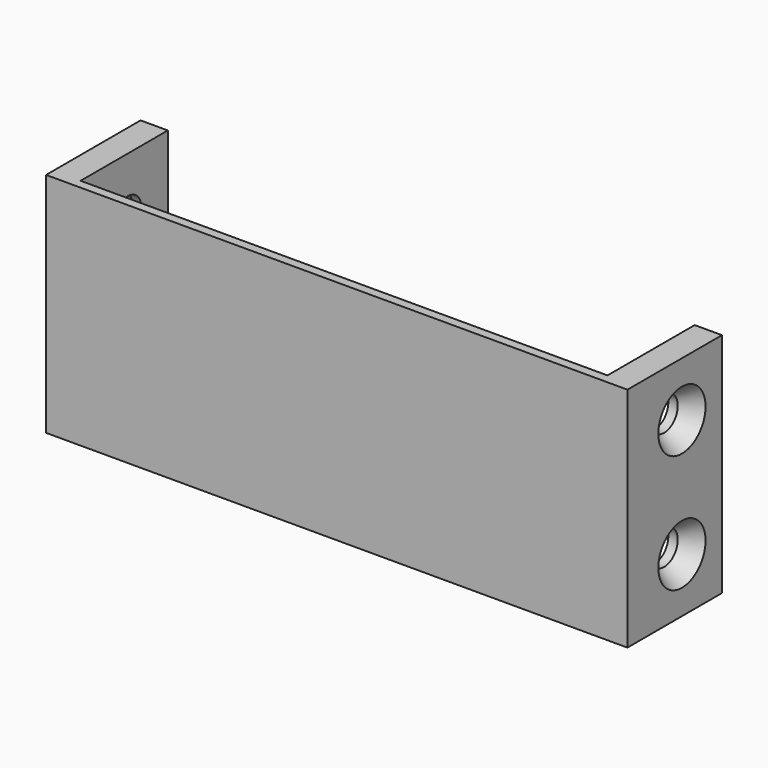
from build123d import *

# Parameters (mm, degrees)
F1_DEPTH       = 25
F4_D           = 3.75
F4_CSINK_D     = 6.5
F4_CSINK_ANGLE = 70
F5_D           = 3.75
F5_CSINK_D     = 6.5
F5_CSINK_ANGLE = 70


with BuildPart() as f1:
    # F0 (on Top) → F1 (new body)
    with BuildSketch(Plane.XY):
        Polygon((-23.20677, 6.948909), (-26.20677, 6.948909), (-26.20677, -6.051091), (37.79323, -6.051091), (37.79323, 6.948909), (34.79323, 6.948909), (34.79323, -5.051091), (-23.20677, -5.051091), align=None)
    extrude(amount=F1_DEPTH)

    # F4 (through all)
    with Locations(Plane(origin=(-26.20677, 0, 0), x_dir=(0, -1, 0), z_dir=(-1, 0, 0))):
        with Locations((-1.448909, 6), (-1.448909, 19)):
            CounterSinkHole(F4_D / 2, F4_CSINK_D / 2, counter_sink_angle=F4_CSINK_ANGLE)

    # F5 (through all)
    with Locations(Plane.YZ.offset(37.79323)):
        with Locations((1.448909, 19), (1.448909, 6)):
            CounterSinkHole(F5_D / 2, F5_CSINK_D / 2, counter_sink_angle=F5_CSINK_ANGLE)


solid = f1.part
